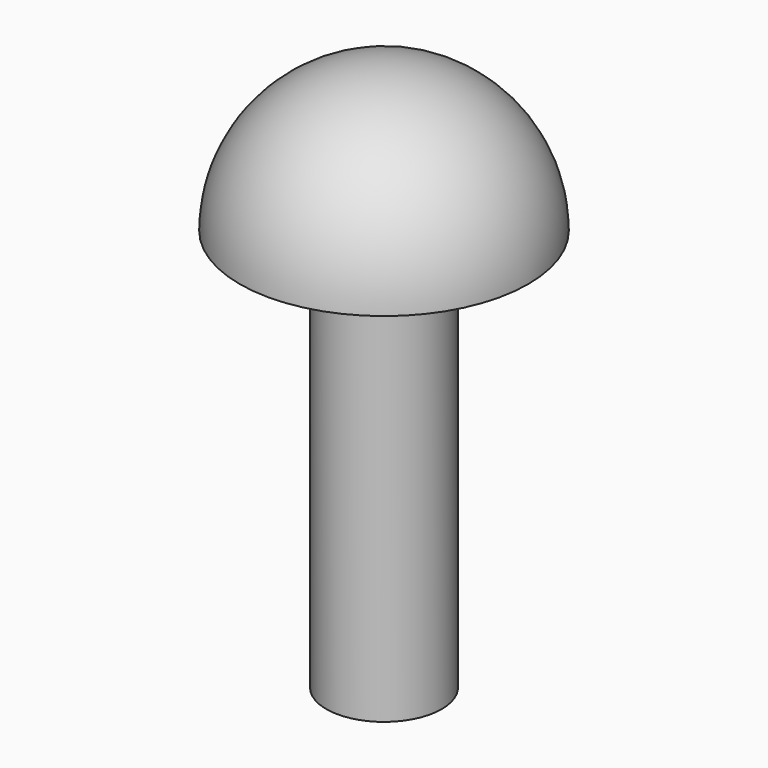
from build123d import *

# Parameters (mm, degrees)
F1_ANGLE = 180
F2_R     = 2.032
F3_DEPTH = 14.16


with BuildPart() as f1:
    # F0 (on Top) → F1 (revolve)
    with BuildSketch(Plane.XY):
        with BuildLine():
            Line((-5.08, 0), (5.08, 0))
            ThreePointArc((5.08, 0), (0, 5.08), (-5.08, 0))
        make_face()
    revolve(axis=Axis((0, 0, 0), (1, 0, 0)), revolution_arc=F1_ANGLE)

    # F2 (on face) → F3 (join)
    with BuildSketch(Plane(origin=(0, 0, 0), x_dir=(1, 0, 0), z_dir=(0, 0, -1))):
        Circle(F2_R)
    extrude(amount=F3_DEPTH)


solid = f1.part
